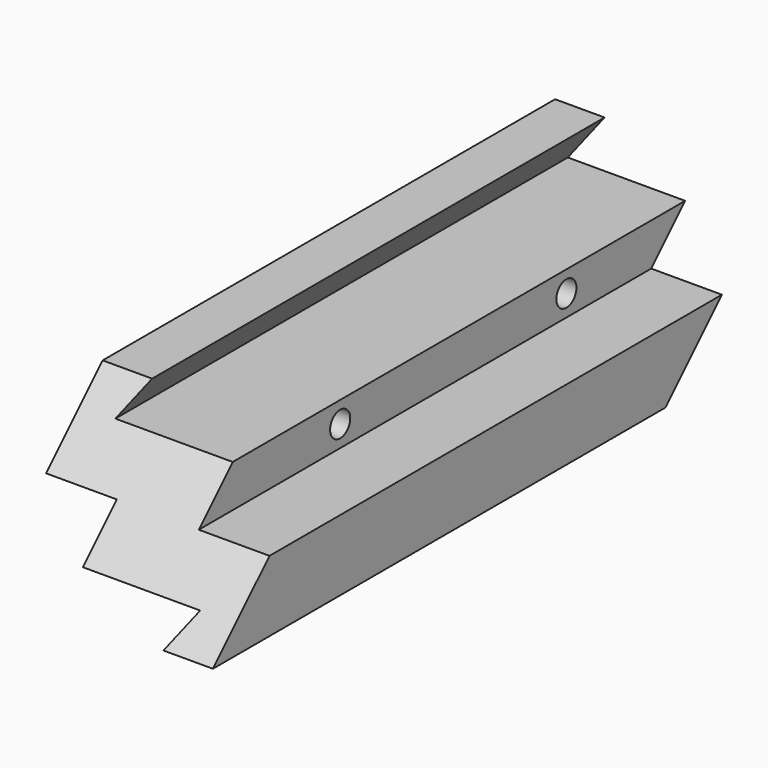
from build123d import *

# Parameters (mm, degrees)
F1_DEPTH = 10.033
F3_DEPTH = 76.2
F4_W     = 6.35
F4_H     = 6.35
F5_DEPTH = 76.2
F7_D     = 2.2606
F7_DEPTH = 8.255
F7_TIP   = 0.6791527577
F9_D     = 2.2606
F9_DEPTH = 8.255
F9_TIP   = 0.6791527577


with BuildPart() as f1:
    # F0 (on Right) → F1 (new body, symmetric)
    with BuildSketch(Plane.YZ):
        Polygon((19.05, -6.35), (31.75, 6.35), (-19.05, 6.35), (-31.75, -6.35), align=None)
    extrude(amount=F1_DEPTH, both=True)

    # F2 (on Front) → F3 (cut, symmetric)
    with BuildSketch(Plane.XZ):
        Polygon((-6.858, -3.81), (-5.588, -6.35), (5.588, -6.35), (6.858, -3.81), align=None)
        Polygon((5.588, 6.35), (-5.588, 6.35), (-6.858, 3.81), (6.858, 3.81), align=None)
    extrude(amount=F3_DEPTH, both=True, mode=Mode.SUBTRACT)

    # F4 (on Front) → F5 (cut, symmetric)
    with BuildSketch(Plane.XZ):
        with Locations((6.858, 3.175)):
            Rectangle(F4_W, F4_H)
        with Locations((-6.858, -3.175)):
            Rectangle(F4_W, F4_H)
    extrude(amount=F5_DEPTH, both=True, mode=Mode.SUBTRACT)

    # F7
    with Locations(Plane.YZ.offset(3.683)):
        with Locations((-9.525, 1.905), (15.875, 1.905)):
            Hole(F7_D / 2, depth=F7_DEPTH)
            with Locations((0, 0, -(F7_DEPTH + F7_TIP / 2))):  # 118° drill point
                Cone(0, F7_D / 2, F7_TIP, mode=Mode.SUBTRACT)

    # F9
    with Locations(Plane(origin=(-3.683, 0, 0), x_dir=(0, -1, 0), z_dir=(-1, 0, 0))):
        with Locations((-9.525, -1.905), (15.875, -1.905)):
            Hole(F9_D / 2, depth=F9_DEPTH)
            with Locations((0, 0, -(F9_DEPTH + F9_TIP / 2))):  # 118° drill point
                Cone(0, F9_D / 2, F9_TIP, mode=Mode.SUBTRACT)


solid = f1.part
